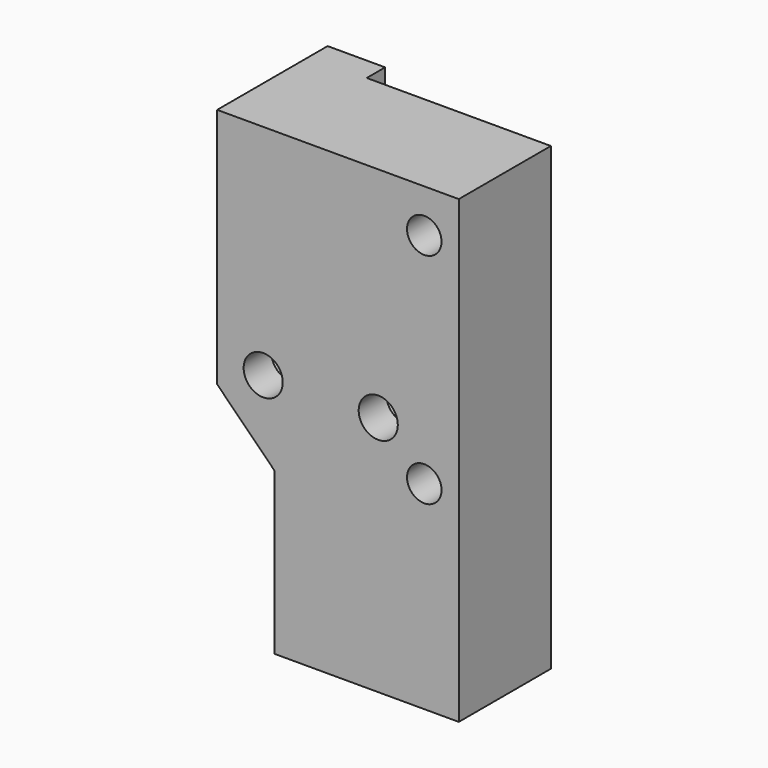
from build123d import *

# Parameters (mm, degrees)
BOX025_W               = 20
BOX025_H               = 10
BOX025_DEPTH           = 44
BOX027_W               = 10.75
BOX027_H               = 10
BOX027_DEPTH           = 4
BOX026_W               = 4
BOX026_H               = 10
BOX026_DEPTH           = 14
CYLINDER031_R          = 2.8
CYLINDER031_DEPTH      = 22
CYLINDER031_ROLL_ANGLE = 90
CYLINDER027_R          = 1.5
CYLINDER027_DEPTH      = 22
CYLINDER027_ROLL_ANGLE = 90
CYLINDER029_R          = 1.5
CYLINDER029_DEPTH      = 22
CYLINDER029_ROLL_ANGLE = 90
CYLINDER026_R          = 1.7
CYLINDER026_DEPTH      = 22
CYLINDER026_ROLL_ANGLE = 90
CYLINDER028_R          = 1.7
CYLINDER028_DEPTH      = 22
CYLINDER028_ROLL_ANGLE = 90
CYLINDER030_R          = 2.8
CYLINDER030_DEPTH      = 22
CYLINDER030_ROLL_ANGLE = 90
PAD016_DEPTH           = 12


with BuildPart() as cube025:
    # Box025 → Box025 (new body)
    with BuildSketch(Plane(origin=(-8, 0, -22), x_dir=(1, 0, 0), z_dir=(0, 0, 1))):
        with Locations((10, 5)):
            Rectangle(BOX025_W, BOX025_H)
    extrude(amount=BOX025_DEPTH)


with BuildPart() as cube027:
    # Box027 → Box027 (new body)
    with BuildSketch(Plane(origin=(-5, -3, -10.5), x_dir=(1, 0, 0), z_dir=(0, 0, 1))):
        with Locations((5.375, 5)):
            Rectangle(BOX027_W, BOX027_H)
    extrude(amount=BOX027_DEPTH)


with BuildPart() as fusion025:
    # Box026 → Box026 (new body)
    with BuildSketch(Plane(origin=(-2.5, -3, 0), x_dir=(1, 0, 0), z_dir=(0, 0, 1))):
        with Locations((2, 5)):
            Rectangle(BOX026_W, BOX026_H)
    extrude(amount=BOX026_DEPTH)

    # Fusion025: union Cube027
    add(cube027.part)


with BuildPart() as cylinder031:
    # Cylinder031 → Cylinder031 (new body)
    with BuildSketch(Plane.XY):
        Circle(CYLINDER031_R)
    extrude(amount=CYLINDER031_DEPTH)


with BuildPart() as cylinder031_1:
    # Cylinder031 roll: moved
    add(cylinder031.part.rotate(Axis((0, 0, 0), (1, 0, 0)), CYLINDER031_ROLL_ANGLE))


with BuildPart() as cylinder031_2:
    # Cylinder031 placement: moved
    add(cylinder031_1.part.moved(Location((-9, 15, 1))))


with BuildPart() as cylinder027:
    # Cylinder027 → Cylinder027 (new body)
    with BuildSketch(Plane.XY):
        Circle(CYLINDER027_R)
    extrude(amount=CYLINDER027_DEPTH)


with BuildPart() as cylinder027_1:
    # Cylinder027 roll: moved
    add(cylinder027.part.rotate(Axis((0, 0, 0), (1, 0, 0)), CYLINDER027_ROLL_ANGLE))


with BuildPart() as cylinder027_2:
    # Cylinder027 placement: moved
    add(cylinder027_1.part.moved(Location((5, 6, 16.25))))


with BuildPart() as cylinder029:
    # Cylinder029 → Cylinder029 (new body)
    with BuildSketch(Plane.XY):
        Circle(CYLINDER029_R)
    extrude(amount=CYLINDER029_DEPTH)


with BuildPart() as cylinder029_1:
    # Cylinder029 roll: moved
    add(cylinder029.part.rotate(Axis((0, 0, 0), (1, 0, 0)), CYLINDER029_ROLL_ANGLE))


with BuildPart() as cylinder029_2:
    # Cylinder029 placement: moved
    add(cylinder029_1.part.moved(Location((5, 6, -2.75))))


with BuildPart() as cylinder026:
    # Cylinder026 → Cylinder026 (new body)
    with BuildSketch(Plane.XY):
        Circle(CYLINDER026_R)
    extrude(amount=CYLINDER026_DEPTH)


with BuildPart() as cylinder026_1:
    # Cylinder026 roll: moved
    add(cylinder026.part.rotate(Axis((0, 0, 0), (1, 0, 0)), CYLINDER026_ROLL_ANGLE))


with BuildPart() as cylinder026_2:
    # Cylinder026 placement: moved
    add(cylinder026_1.part.moved(Location((-9, 6, 1))))


with BuildPart() as cylinder028:
    # Cylinder028 → Cylinder028 (new body)
    with BuildSketch(Plane.XY):
        Circle(CYLINDER028_R)
    extrude(amount=CYLINDER028_DEPTH)


with BuildPart() as cylinder028_1:
    # Cylinder028 roll: moved
    add(cylinder028.part.rotate(Axis((0, 0, 0), (1, 0, 0)), CYLINDER028_ROLL_ANGLE))


with BuildPart() as cylinder028_2:
    # Cylinder028 placement: moved
    add(cylinder028_1.part.moved(Location((1, 6, 1))))


with BuildPart() as fusion024:
    # Cylinder030 → Cylinder030 (new body)
    with BuildSketch(Plane.XY):
        Circle(CYLINDER030_R)
    extrude(amount=CYLINDER030_DEPTH)


with BuildPart() as fusion024_1:
    # Cylinder030 roll: moved
    add(fusion024.part.rotate(Axis((0, 0, 0), (1, 0, 0)), CYLINDER030_ROLL_ANGLE))


with BuildPart() as fusion024_2:
    # Cylinder030 placement: moved
    add(fusion024_1.part.moved(Location((1, 15, 1))))

    # Fusion024: union Cylinder031, Cylinder027, Cylinder029, Cylinder026, Cylinder028
    add(cylinder031_2.part)
    add(cylinder027_2.part)
    add(cylinder029_2.part)
    add(cylinder026_2.part)
    add(cylinder028_2.part)


with BuildPart() as cut036:
    # Sketch018 → Pad016 (new body)
    with BuildSketch(Plane.XZ.offset(-2)):
        Polygon((-13, 20), (8, 20), (8, -20), (-8, -20), (-8, -6), (-13, -1), align=None)
    extrude(amount=PAD016_DEPTH)

    # Cut034: cut Fusion024
    add(fusion024_2.part, mode=Mode.SUBTRACT)

    # Cut035: cut Fusion025
    add(fusion025.part, mode=Mode.SUBTRACT)

    # Cut036: cut Cube025
    add(cube025.part, mode=Mode.SUBTRACT)


solid = cut036.part
